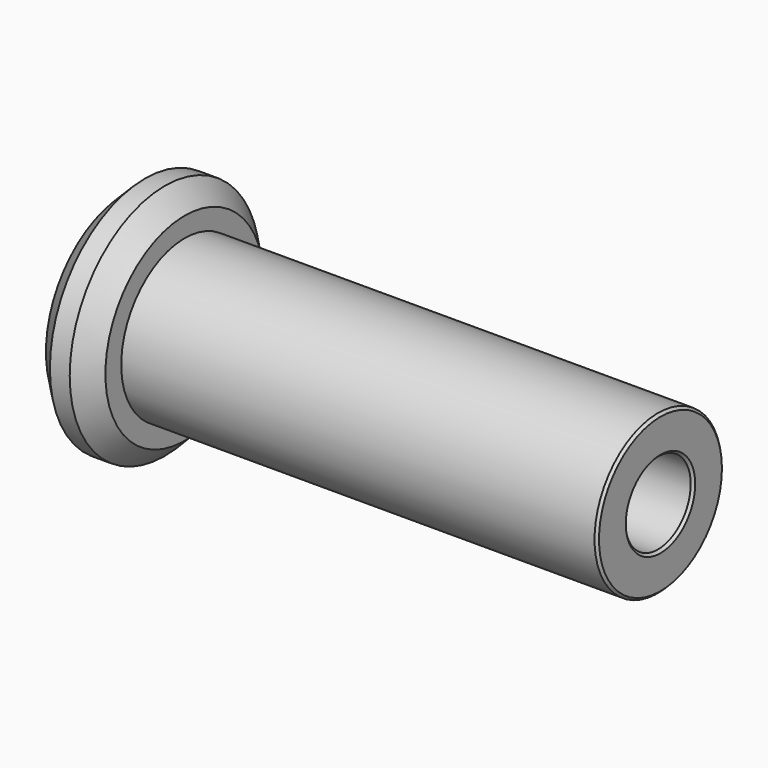
from build123d import *

# Parameters (mm, degrees)
F0_R     = 19.05
F1_DEPTH = 9.525
F2_SIZE  = 3.175
F3_R     = 12.7
F4_DEPTH = 76.2
F5_R     = 6.548438
F6_DEPTH = 85.726
F7_SIZE  = 0.396875


with BuildPart() as f1:
    # F0 (on Right) → F1 (new body)
    with BuildSketch(Plane.YZ):
        Circle(F0_R)
    extrude(amount=F1_DEPTH)

    # F2
    f2_edges = [f1.edges().sort_by_distance(p)[0] for p in [
        (9.525, -19.05, 0),
        (0, -19.05, 0),
    ]]
    chamfer(f2_edges, length=F2_SIZE)

    # F3 (on face) → F4 (join)
    with BuildSketch(Plane.YZ.offset(9.525)):
        Circle(F3_R)
    extrude(amount=F4_DEPTH)

    # F5 (on face) → F6 (cut, through all)
    with BuildSketch(Plane.YZ.offset(85.725)):
        Circle(F5_R)
    extrude(amount=-F6_DEPTH, mode=Mode.SUBTRACT)

    # F7
    f7_edges = [f1.edges().sort_by_distance(p)[0] for p in [
        (85.725, -12.7, 0),
        (85.725, -6.548438, 0),
        (0, -6.548438, 0),
    ]]
    chamfer(f7_edges, length=F7_SIZE)


solid = f1.part
